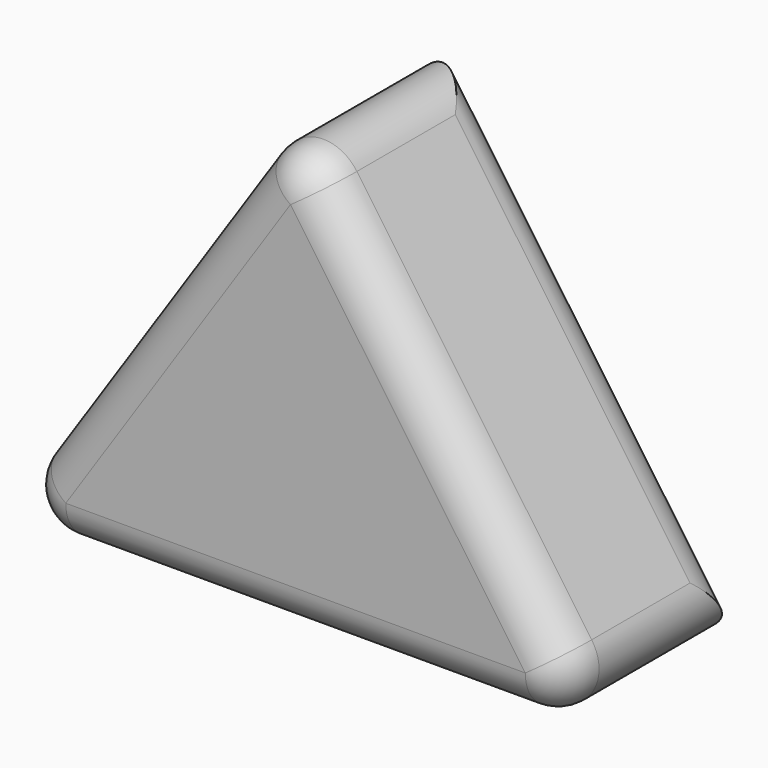
from build123d import *

# Parameters (mm, degrees)
F1_DEPTH = 25.4
F2_R     = 5.08


with BuildPart() as f1:
    # F0 (on Front) → F1 (new body)
    with BuildSketch(Plane.XZ):
        Polygon((0, 55.711709), (-37.265691, 0), (38.934309, 0), align=None)
    extrude(amount=F1_DEPTH)

    # F2
    f2_edges = [f1.edges().sort_by_distance(p)[0] for p in [
        (-18.632845, -25.4, 27.855854),
        (19.467155, -25.4, 27.855854),
        (0.834309, -25.4, 0),
        (38.934309, -12.7, 0),
        (19.467155, 0, 27.855854),
        (0, -12.7, 55.711709),
        (-37.265691, -12.7, 0),
    ]]
    fillet(f2_edges, radius=F2_R)


solid = f1.part
